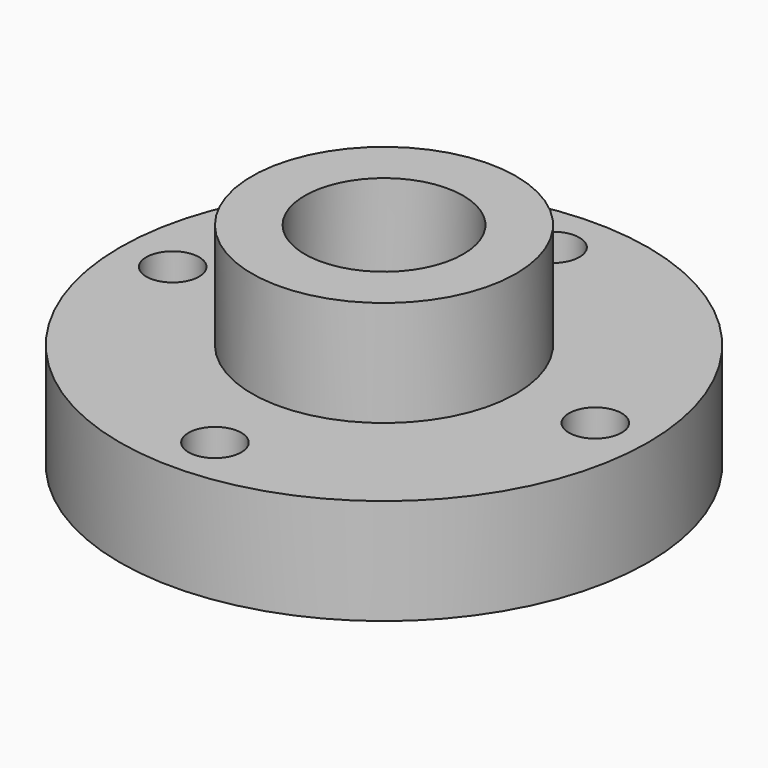
from build123d import *

# Parameters (mm, degrees)
F0_R      = 31.75
F0_R_2    = 3.175
F1_DEPTH  = 12.7
F2_R      = 15.875
F2_R_2    = 9.525
F3_DEPTH  = 12.7
F3_FACE_R = 9.525
F4_DEPTH  = 25.4


with BuildPart() as f1:
    # F0 (on Top) → F1 (new body)
    with BuildSketch(Plane.XY):
        Circle(F0_R)
        with Locations((0, -25.4)):
            Circle(F0_R_2, mode=Mode.SUBTRACT)
        with Locations((-25.4, 0)):
            Circle(F0_R_2, mode=Mode.SUBTRACT)
        with Locations((25.4, 0)):
            Circle(F0_R_2, mode=Mode.SUBTRACT)
        with Locations((0, 25.4)):
            Circle(F0_R_2, mode=Mode.SUBTRACT)
    extrude(amount=F1_DEPTH)

    # F2 (on face) → F3 (join)
    with BuildSketch(Plane.XY.offset(12.7)):
        Circle(F2_R)
        Circle(F2_R_2, mode=Mode.SUBTRACT)
    extrude(amount=F3_DEPTH)

    # F3_face (on face) → F4 (cut)
    with BuildSketch(Plane.XY.offset(12.7)):
        Circle(F3_FACE_R)
    extrude(amount=-F4_DEPTH, mode=Mode.SUBTRACT)


solid = f1.part
